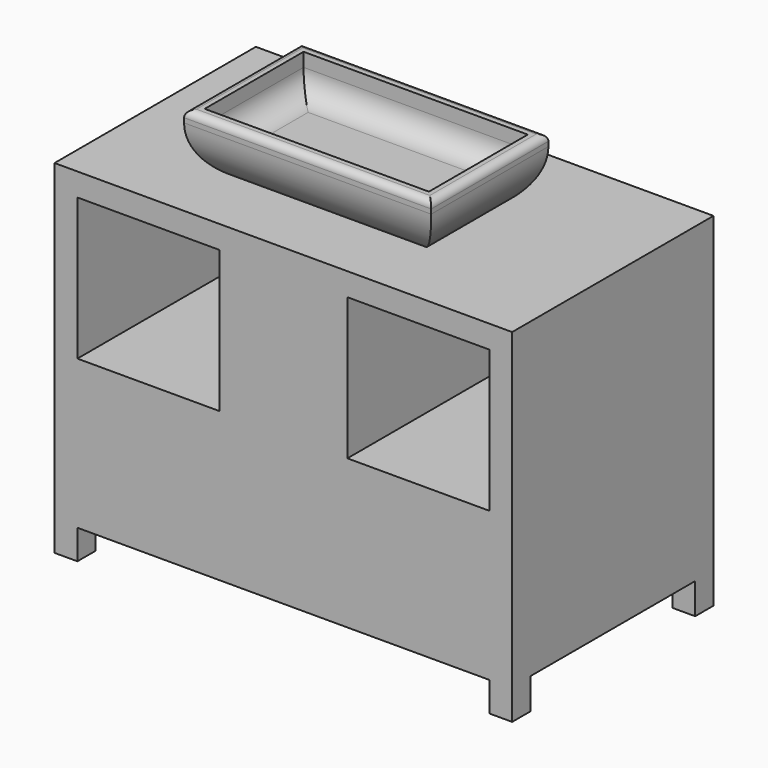
from build123d import *

# Parameters (mm, degrees)
F0_W      = 1000
F0_H      = 550
F1_DEPTH  = 750
F3_W      = 540
F3_H      = 320.122876247
F4_DEPTH  = 150
F5_R      = 125
F6_R      = 15
F7_W      = 490
F7_H      = 270.122876247
F8_DEPTH  = 80
F9_R      = 50
F10_W     = 310
F10_H     = 310
F10_W_2   = 900
F10_H_2   = 64.6422952414
F11_DEPTH = 550
F12_W     = 450
F12_H     = 67.7417116343
F13_DEPTH = 1000.001


with BuildPart() as f1:
    # F0 (on Top) → F1 (new body)
    with BuildSketch(Plane.XY):
        with Locations((-5.8366749436, 13.2999491933)):
            Rectangle(F0_W, F0_H)
    extrude(amount=F1_DEPTH)

    # F10 (on face) → F11 (cut, through all)
    with BuildSketch(Plane.XZ.offset(261.7000508067)):
        with Locations((-300.8366749436, 545)):
            Rectangle(F10_W, F10_H)
        with Locations((289.1633250564, 545)):
            Rectangle(F10_W, F10_H)
        with Locations((-5.8366749436, 32.3211476207)):
            Rectangle(F10_W_2, F10_H_2)
    extrude(amount=-F11_DEPTH, mode=Mode.SUBTRACT)

    # F12 (on face) → F13 (cut, through all)
    with BuildSketch(Plane.YZ.offset(494.1633250564)):
        with Locations((13.2999491933, 33.8708558172)):
            Rectangle(F12_W, F12_H)
    extrude(amount=-F13_DEPTH, mode=Mode.SUBTRACT)


with BuildPart() as f4:
    # F3 (on offset) → F4 (new body)
    with BuildSketch(Plane.XY.offset(750)):
        with Locations((-5.8366749436, -35.2130914107)):
            Rectangle(F3_W, F3_H)
    extrude(amount=F4_DEPTH)

    # F5
    f5_edges = [f4.edges().sort_by_distance(p)[0] for p in [
        (-5.836675, -195.27453, 750),
        (264.163325, -35.213091, 750),
        (-5.836675, 124.848347, 750),
        (-275.836675, -35.213091, 750),
    ]]
    fillet(f5_edges, radius=F5_R)

    # F6
    f6_edges = [f4.edges().sort_by_distance(p)[0] for p in [
        (-5.836675, -195.27453, 900),
        (-275.836675, -35.213091, 900),
        (-5.836675, 124.848347, 900),
        (264.163325, -35.213091, 900),
    ]]
    fillet(f6_edges, radius=F6_R)

    # F7 (on face) → F8 (cut)
    with BuildSketch(Plane.XY.offset(900)):
        with Locations((-5.8366749436, -35.2130914107)):
            Rectangle(F7_W, F7_H)
    extrude(amount=-F8_DEPTH, mode=Mode.SUBTRACT)

    # F9
    f9_edges = [f4.edges().sort_by_distance(p)[0] for p in [
        (-5.836675, 99.848347, 820),
        (-250.836675, -35.213091, 820),
        (239.163325, -35.213091, 820),
        (-5.836675, -170.27453, 820),
    ]]
    fillet(f9_edges, radius=F9_R)


solid = Compound([f1.part, f4.part])
